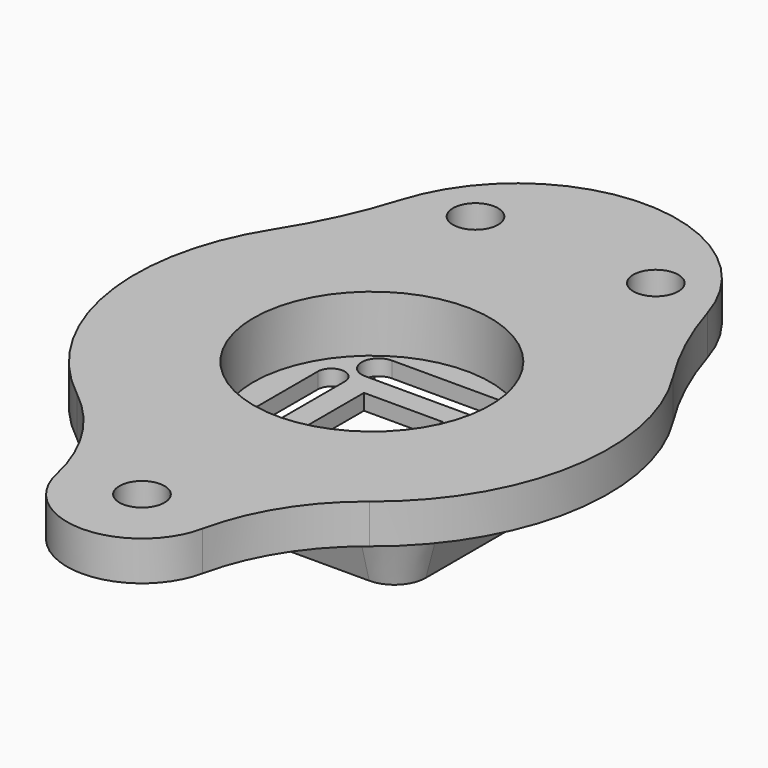
from build123d import *

# Parameters (mm, degrees)
PAD015_DEPTH            = 0.8
SKETCH029_W             = 7
SKETCH029_H             = 7
PAD017_DEPTH            = 1.5
SKETCH028_R             = 1.5
HOLE008_DEPTH           = 25
SKETCH022_R             = 10.5
PAD020_DEPTH            = 3.5
PAD021_DEPTH            = 4.5
PAD021_TAPER            = 15
SKETCH023_R             = 2
HOLE010_DEPTH           = 25
SKETCH036_R             = 10.5
POCKET003_DEPTH         = 5
BODY009_PLACEMENT_ANGLE = 180


with BuildPart() as as5600:
    # Sketch027 → Pad015 (new body, symmetric)
    with BuildSketch(Plane.XY):
        with BuildLine():
            Line((-11.5, 8.5), (-11.5, -8.5))
            ThreePointArc((-11.5, -8.5), (-10.62132, -10.62132), (-8.5, -11.5))
            Line((-8.5, -11.5), (8.5, -11.5))
            ThreePointArc((8.5, -11.5), (10.62132, -10.62132), (11.5, -8.5))
            Line((11.5, -8.5), (11.5, 8.5))
            ThreePointArc((11.5, 8.5), (10.62132, 10.62132), (8.5, 11.5))
            Line((8.5, 11.5), (-8.5, 11.5))
            ThreePointArc((-8.5, 11.5), (-10.62132, 10.62132), (-11.5, 8.5))
        make_face()
    extrude(amount=PAD015_DEPTH, both=True)

    # Sketch029 → Pad017 (join)
    with BuildSketch(Plane.XY.offset(0.8)):
        with BuildLine():
            ThreePointArc((-5, 8.5), (-6.5, 7), (-5, 5.5))
            Line((-5, 5.5), (5, 5.5))
            ThreePointArc((5, 5.5), (6.5, 7), (5, 8.5))
            Line((-5, 8.5), (5, 8.5))
        make_face()
        with BuildLine():
            ThreePointArc((-3.5, -4.5), (-5, -6), (-3.5, -7.5))
            Line((-3.5, -7.5), (3.5, -7.5))
            ThreePointArc((3.5, -7.5), (5, -6), (3.5, -4.5))
            Line((-3.5, -4.5), (3.5, -4.5))
        make_face()
        Rectangle(SKETCH029_W, SKETCH029_H)
        with BuildLine():
            ThreePointArc((-8, -5.5), (-6.8, -6.7), (-5.6, -5.5))
            Line((-5.6, -5.5), (-5.6, 4))
            ThreePointArc((-5.6, 4), (-6.8, 5.2), (-8, 4))
            Line((-8, -5.5), (-8, 4))
        make_face()
        with BuildLine():
            ThreePointArc((6.8, 3.38), (5.8, 4.38), (4.8, 3.38))
            Line((4.8, 3.38), (4.8, -3.38))
            ThreePointArc((4.8, -3.38), (5.8, -4.38), (6.8, -3.38))
            Line((6.8, 3.38), (6.8, -3.38))
        make_face()
    extrude(amount=PAD017_DEPTH)

    # Sketch028 (on Face10 of Pad015) → Hole008 (cut)
    with BuildSketch(Plane.XY.offset(0.8)):
        with Locations((-8.5, 8.5)):
            Circle(SKETCH028_R)
        with Locations((8.5, 8.5)):
            Circle(SKETCH028_R)
        with Locations((-8.5, -8.5)):
            Circle(SKETCH028_R)
        with Locations((8.5, -8.5)):
            Circle(SKETCH028_R)
    extrude(amount=-HOLE008_DEPTH, mode=Mode.SUBTRACT)


with BuildPart() as as5600_1:
    # Body001 placement: moved
    add(as5600.part.moved(Location((0, 0, -7.7))))


with BuildPart() as obj1:
    # Sketch022 → Pad020 (new body)
    with BuildSketch(Plane.XY):
        with BuildLine():
            ThreePointArc((13.586881, 20.251823), (0, 30.3), (-13.586881, 20.251823))
            ThreePointArc((-17.728491, 11.256137), (-15.355357, 15.614788), (-13.586881, 20.251823))
            ThreePointArc((-17.728491, 11.256137), (-20.699674, -3.538854), (-12.982142, -16.506483))
            ThreePointArc((-6.502297, -26.893782), (-8.833051, -21.132971), (-12.982142, -16.506483))
            ThreePointArc((-6.502297, -26.893782), (0, -32.15), (6.502297, -26.893782))
            ThreePointArc((12.982142, -16.506483), (8.833051, -21.132971), (6.502297, -26.893782))
            ThreePointArc((12.982142, -16.506483), (20.699674, -3.538854), (17.728491, 11.256137))
            ThreePointArc((13.586881, 20.251823), (15.355357, 15.614788), (17.728491, 11.256137))
        make_face()
        Circle(SKETCH022_R, mode=Mode.SUBTRACT)
    extrude(amount=PAD020_DEPTH)

    # Sketch026 (on Face11 of Pad020) → Pad021 (join)
    with BuildSketch(Plane.XY.offset(3.5)):
        with BuildLine():
            Line((-14.8, 11), (-14.8, -11))
            ThreePointArc((-14.8, -11), (-13.628427, -13.828427), (-10.8, -15))
            Line((-10.8, -15), (10.8, -15))
            ThreePointArc((10.8, -15), (13.628427, -13.828427), (14.8, -11))
            Line((14.8, -11), (14.8, 11))
            ThreePointArc((14.8, 11), (13.628427, 13.828427), (10.8, 15))
            Line((10.8, 15), (-10.8, 15))
            ThreePointArc((-10.8, 15), (-13.628427, 13.828427), (-14.8, 11))
        make_face()
    extrude(amount=PAD021_DEPTH, taper=PAD021_TAPER)

    # Sketch023 → Hole010 (cut)
    with BuildSketch(Plane.XY):
        with Locations((0, -25.5)):
            Circle(SKETCH023_R)
        with Locations((-8, 21.5)):
            Circle(SKETCH023_R)
        with Locations((8, 21.5)):
            Circle(SKETCH023_R)
        with Locations((0, -25.5)):
            Circle(SKETCH023_R)
        with Locations((-8, 21.5)):
            Circle(SKETCH023_R)
        with Locations((8, 21.5)):
            Circle(SKETCH023_R)
    extrude(amount=HOLE010_DEPTH, mode=Mode.SUBTRACT)

    # Sketch036 → Pocket003 (cut)
    with BuildSketch(Plane.XY):
        Circle(SKETCH036_R)
    extrude(amount=POCKET003_DEPTH, mode=Mode.SUBTRACT)


with BuildPart() as obj1_1:
    # Body009 placement: moved
    add(obj1.part.moved(Location((0, 0, -0.5))).rotate(Axis((0, 0, -0.5), (0, 1, 0)), BODY009_PLACEMENT_ANGLE))

    # Cut009: cut AS5600
    add(as5600_1.part, mode=Mode.SUBTRACT)


solid = obj1_1.part
